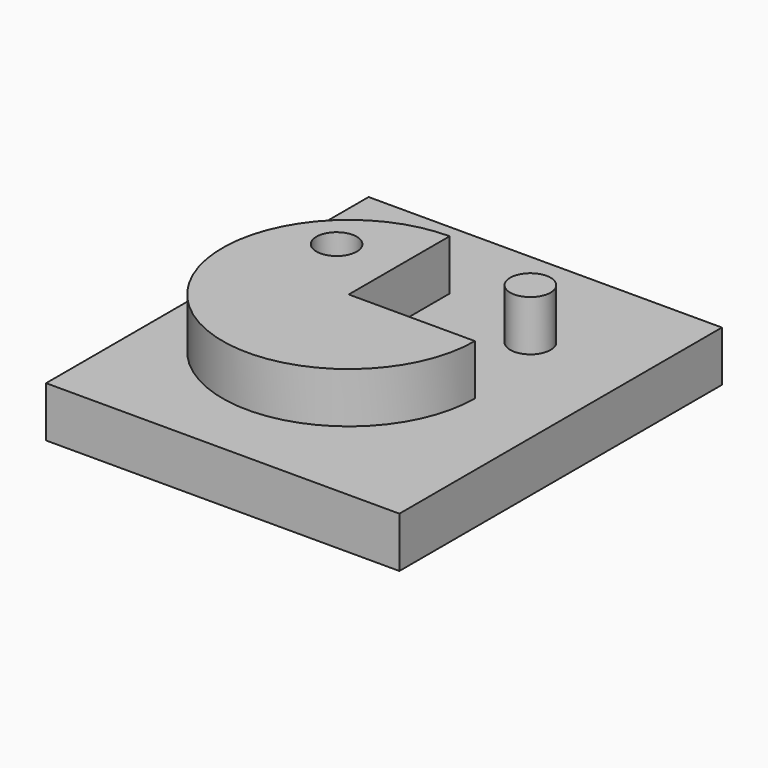
from build123d import *

# Parameters (mm, degrees)
PAD_DEPTH    = 10
SKETCH001_R  = 4
POCKET_DEPTH = 5
SKETCH002_R  = 4.001439
PAD001_DEPTH = 10
SKETCH003_W  = 70
SKETCH003_H  = 79.871796
PAD002_DEPTH = 10


with BuildPart() as obj1:
    # Sketch → Pad (new body)
    with BuildSketch(Plane.XY):
        with BuildLine():
            ThreePointArc((0, 25), (-17.67767, -17.67767), (25, 0))
            Line((0, 0), (25, 0))
            Line((0, 25), (0, 0))
        make_face()
    extrude(amount=PAD_DEPTH)

    # Sketch001 (on Face5 of Pad) → Pocket (cut)
    with BuildSketch(Plane.XY.offset(10)):
        with Locations((-12, 12)):
            Circle(SKETCH001_R)
    extrude(amount=-POCKET_DEPTH, mode=Mode.SUBTRACT)


with BuildPart() as obj2:
    # Sketch002 → Pad001 (new body)
    with BuildSketch(Plane.XY):
        with Locations((20, 20)):
            Circle(SKETCH002_R)
    extrude(amount=PAD001_DEPTH)


with BuildPart() as base:
    # Sketch003 → Pad002 (new body)
    with BuildSketch(Plane.XY):
        with Locations((5, 2.486687)):
            Rectangle(SKETCH003_W, SKETCH003_H)
    extrude(amount=-PAD002_DEPTH)


solid = Compound([obj1.part, obj2.part, base.part])
